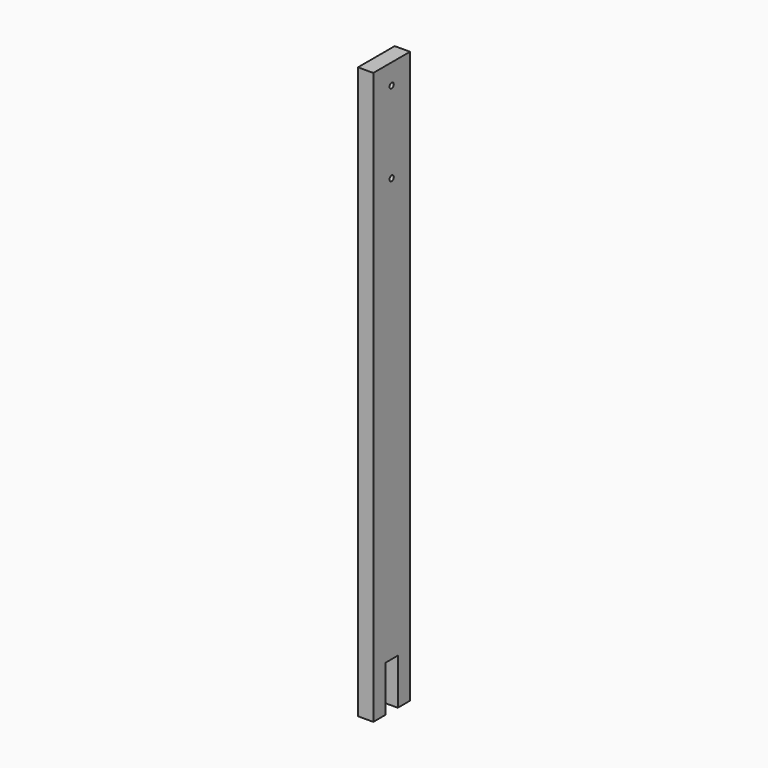
from build123d import *

# Parameters (mm, degrees)
F0_W     = 19.05
F0_H     = 57.15
F1_DEPTH = 711.2
F2_W     = 19.05
F2_H     = 57.15
F3_DEPTH = 19.05
F4_R     = 3.302
F5_DEPTH = 19.05


with BuildPart() as f1:
    # F0 (on Top) → F1 (new body)
    with BuildSketch(Plane.XY):
        with Locations((9.525, 28.575)):
            Rectangle(F0_W, F0_H)
    extrude(amount=F1_DEPTH)

    # F2 (on face) → F3 (cut, through all)
    with BuildSketch(Plane.YZ.offset(19.05)):
        with Locations((28.575, 28.575)):
            Rectangle(F2_W, F2_H)
    extrude(amount=-F3_DEPTH, mode=Mode.SUBTRACT)

    # F4 (on face) → F5 (cut, through all)
    with BuildSketch(Plane(origin=(0, 0, 0), x_dir=(0, -1, 0), z_dir=(-1, 0, 0))):
        with Locations((-28.575, 685.8)):
            Circle(F4_R)
        with Locations((-28.575, 584.2)):
            Circle(F4_R)
    extrude(amount=-F5_DEPTH, mode=Mode.SUBTRACT)


solid = f1.part
